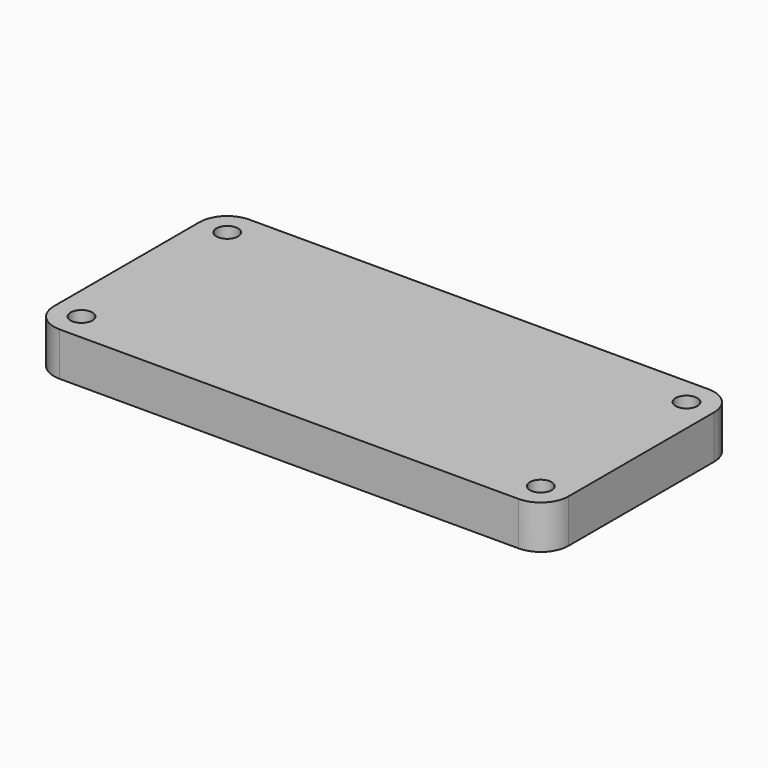
from build123d import *

# Parameters (mm, degrees)
F0_R     = 1.75
F0_R_2   = 1.375
F1_DEPTH = 5.5


with BuildPart() as f1:
    # F0 (on Top) → F1 (new body)
    with BuildSketch(Plane.XY):
        with BuildLine():
            Line((33.2736441009, 20.1755892562), (-24.7263558991, 20.1755892562))
            ThreePointArc((-24.7263558991, 20.1755892562), (-27.2012296333, 19.1504629903), (-28.2263558991, 16.6755892562))
            Line((-28.2263558991, 16.6755892562), (-28.2263558991, -6.3244107438))
            ThreePointArc((-28.2263558991, -6.3244107438), (-27.2012296333, -8.799284478), (-24.7263558991, -9.8244107438))
            Line((-24.7263558991, -9.8244107438), (33.2736441009, -9.8244107438))
            ThreePointArc((33.2736441009, -9.8244107438), (35.748517835, -8.799284478), (36.7736441009, -6.3244107438))
            Line((36.7736441009, -6.3244107438), (36.7736441009, 16.6755892562))
            ThreePointArc((36.7736441009, 16.6755892562), (35.748517835, 19.1504629903), (33.2736441009, 20.1755892562))
        make_face()
        with Locations((-24.7263558991, -6.3244107438)):
            Circle(F0_R, mode=Mode.SUBTRACT)
        with Locations((33.2736441009, -6.3244107438)):
            Circle(F0_R, mode=Mode.SUBTRACT)
        with Locations((-24.7263558991, 16.6755892562)):
            Circle(F0_R, mode=Mode.SUBTRACT)
        with Locations((33.2736441009, 16.6755892562)):
            Circle(F0_R, mode=Mode.SUBTRACT)
        with Locations((-24.7263558991, -6.3244107438)):
            Circle(F0_R)
        with Locations((-24.7263558991, -6.3244107438)):
            Circle(F0_R_2, mode=Mode.SUBTRACT)
        with Locations((-24.7263558991, 16.6755892562)):
            Circle(F0_R)
        with Locations((-24.7263558991, 16.6755892562)):
            Circle(F0_R_2, mode=Mode.SUBTRACT)
        with Locations((33.2736441009, -6.3244107438)):
            Circle(F0_R)
        with Locations((33.2736441009, -6.3244107438)):
            Circle(F0_R_2, mode=Mode.SUBTRACT)
        with Locations((33.2736441009, 16.6755892562)):
            Circle(F0_R)
        with Locations((33.2736441009, 16.6755892562)):
            Circle(F0_R_2, mode=Mode.SUBTRACT)
    extrude(amount=F1_DEPTH)


solid = f1.part
